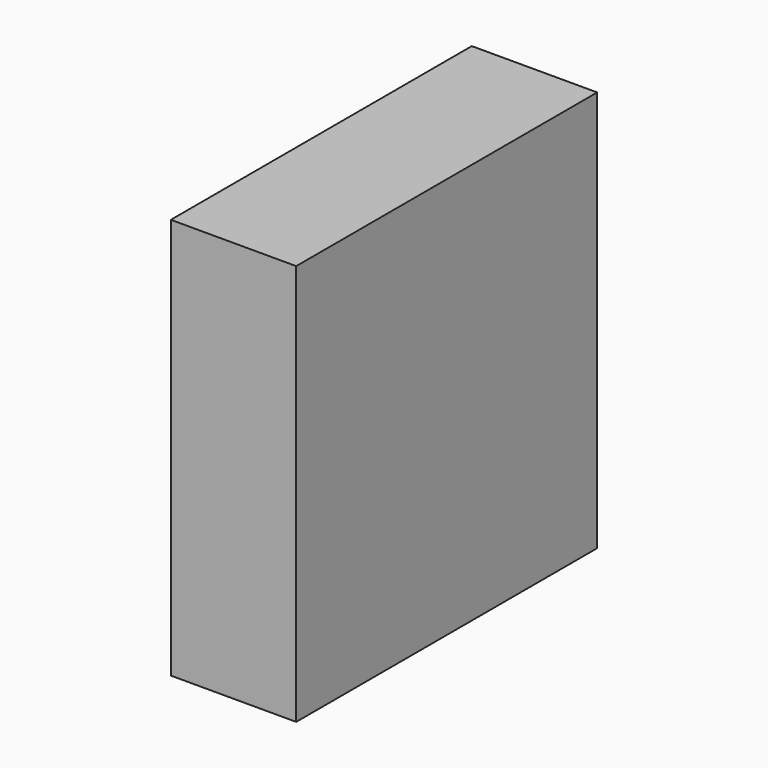
from build123d import *

# Parameters (mm, degrees)
F0_W     = 75
F0_H     = 80
F1_DEPTH = 25
F2_DEPTH = 25
F3_DEPTH = 25


with BuildPart() as f1:
    # F0 (on Right) → F1 (new body)
    with BuildSketch(Plane.YZ):
        with Locations((-52.241983, -9.474061)):
            Rectangle(F0_W, F0_H)
    extrude(amount=F1_DEPTH)

    # F0 (on Right) → F2 (join)
    with BuildSketch(Plane.YZ):
        with Locations((-52.241983, -9.474061)):
            Rectangle(F0_W, F0_H)
    extrude(amount=F2_DEPTH)

    # F0 (on Right) → F3 (join)
    with BuildSketch(Plane.YZ):
        with Locations((-52.241983, -9.474061)):
            Rectangle(F0_W, F0_H)
    extrude(amount=F3_DEPTH)


solid = f1.part
